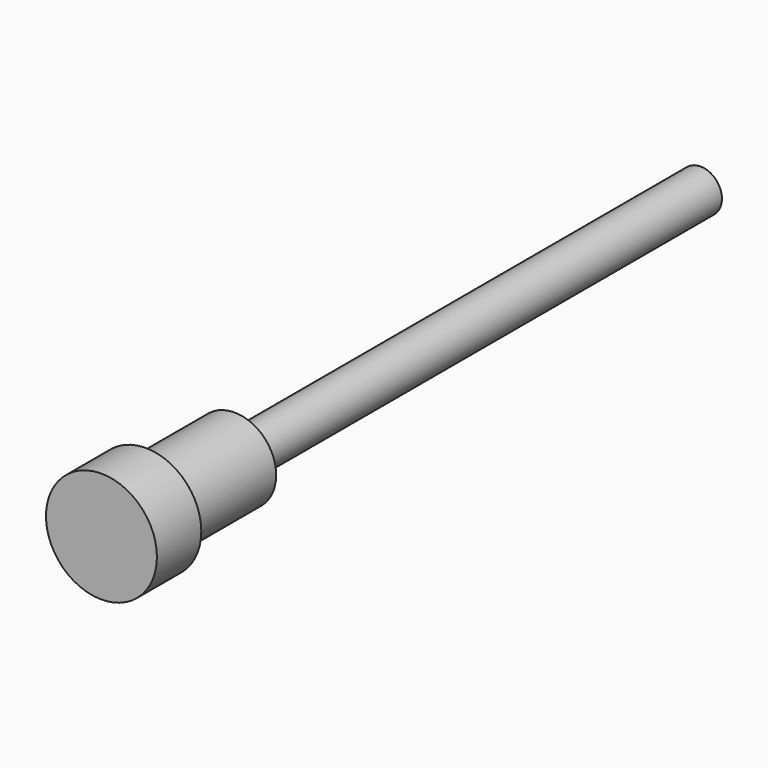
from build123d import *

# Parameters (mm, degrees)
F0_R     = 4.9022
F1_DEPTH = 133.35
F2_R     = 9.525
F3_DEPTH = 25.4
F4_R     = 12.7
F5_DEPTH = 12.7


with BuildPart() as f1:
    # F0 (on Front) → F1 (new body)
    with BuildSketch(Plane.XZ):
        Circle(F0_R)
    extrude(amount=-F1_DEPTH)

    # F2 (on Front) → F3 (join)
    with BuildSketch(Plane.XZ):
        Circle(F2_R)
    extrude(amount=F3_DEPTH)

    # F4 (on face) → F5 (join)
    with BuildSketch(Plane.XZ.offset(25.4)):
        Circle(F4_R)
    extrude(amount=F5_DEPTH)


solid = f1.part
